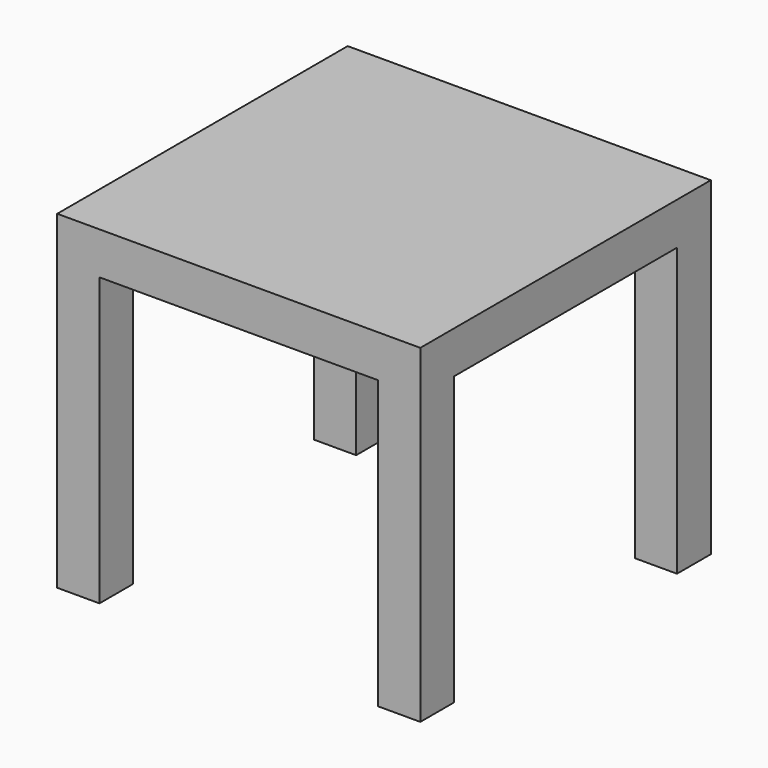
from build123d import *

# Parameters (mm, degrees)
F1_W     = 430
F1_H     = 430
F2_DEPTH = 50
F3_W     = 50
F3_H     = 50
F4_DEPTH = 340


with BuildPart() as f2:
    # F1 (on offset) → F2 (new body)
    with BuildSketch(Plane.XY.offset(390)):
        Rectangle(F1_W, F1_H)
    extrude(amount=-F2_DEPTH)

    # F3 (on face) → F4 (join, through all)
    with BuildSketch(Plane(origin=(0, 0, 340), x_dir=(1, 0, 0), z_dir=(0, 0, -1))):
        with Locations((190, 190)):
            Rectangle(F3_W, F3_H)
        with Locations((-190, 190)):
            Rectangle(F3_W, F3_H)
        with Locations((-190, -190)):
            Rectangle(F3_W, F3_H)
        with Locations((190, -190)):
            Rectangle(F3_W, F3_H)
    extrude(amount=F4_DEPTH)


solid = f2.part
